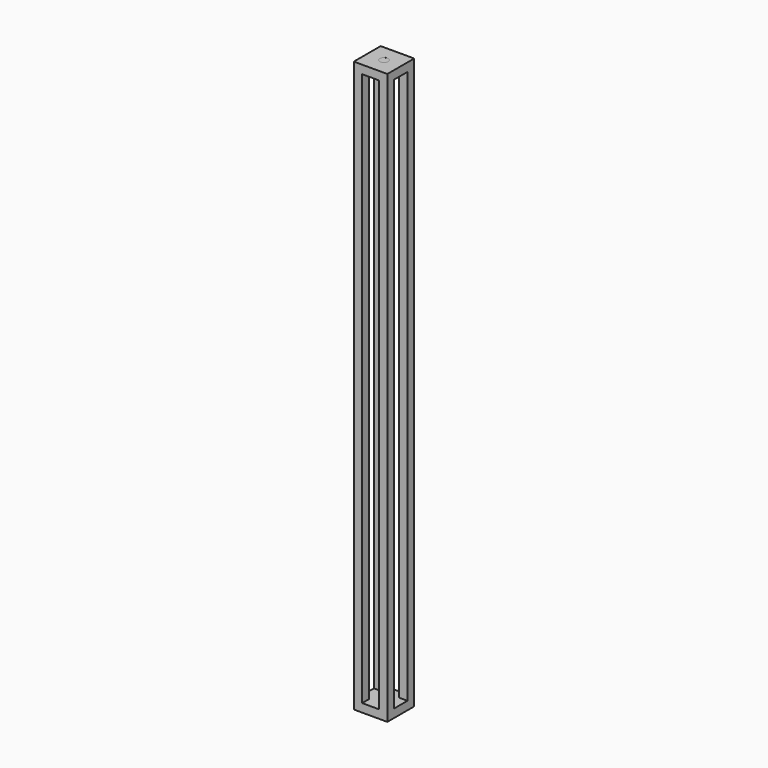
from build123d import *

# Parameters (mm, degrees)
F0_W     = 152.4
F0_H     = 152.4
F1_DEPTH = 38.1
F2_W     = 38.1
F2_H     = 38.1
F3_DEPTH = 2514.092
F4_W     = 152.4
F4_H     = 152.4
F5_DEPTH = 38.1
F6_R     = 19.05
F7_DEPTH = 0.254
F8_R     = 19.05
F9_DEPTH = 0.254


with BuildPart() as f1:
    # F0 (on Top) → F1 (new body)
    with BuildSketch(Plane.XY):
        Rectangle(F0_W, F0_H)
    extrude(amount=-F1_DEPTH)

    # F2 (on face) → F3 (join)
    with BuildSketch(Plane.XY):
        with Locations((57.15, -57.15)):
            Rectangle(F2_W, F2_H)
        with Locations((57.15, 57.15)):
            Rectangle(F2_W, F2_H)
        with Locations((-57.15, -57.15)):
            Rectangle(F2_W, F2_H)
        with Locations((-57.15, 57.15)):
            Rectangle(F2_W, F2_H)
    extrude(amount=F3_DEPTH)

    # F4 (on face) → F5 (join)
    with BuildSketch(Plane.XY.offset(2514.092)):
        Rectangle(F4_W, F4_H)
    extrude(amount=F5_DEPTH)

    # F6 (on face) → F7 (cut)
    with BuildSketch(Plane(origin=(0, 0, -38.1), x_dir=(1, 0, 0), z_dir=(0, 0, -1))):
        Circle(F6_R)
    extrude(amount=-F7_DEPTH, mode=Mode.SUBTRACT)

    # F8 (on face) → F9 (cut)
    with BuildSketch(Plane.XY.offset(2552.192)):
        Circle(F8_R)
    extrude(amount=-F9_DEPTH, mode=Mode.SUBTRACT)


solid = f1.part
